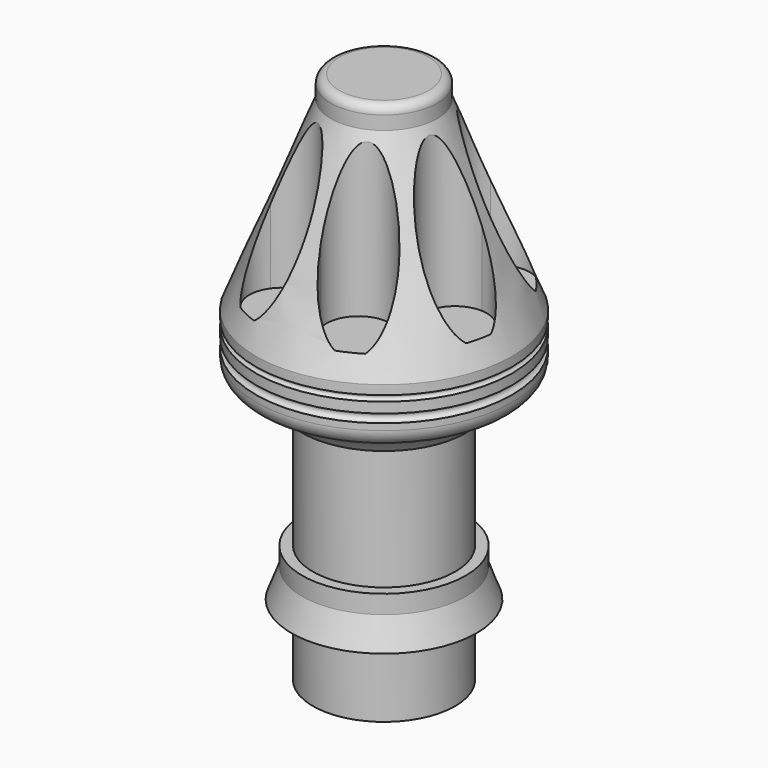
from build123d import *

# Parameters (mm, degrees)
F3_DEPTH = 33.02


with BuildPart() as f1:
    # F0 (on Front) → F1 (revolve)
    with BuildSketch(Plane.XZ):
        with BuildLine():
            Line((0, 0), (12.7, 0))
            Line((12.7, 0), (12.7, 12.7))
            Line((12.7, 12.7), (16.51, 12.7))
            Line((16.51, 12.7), (14.605, 17.8347313616))
            Line((14.605, 17.8347313616), (14.605, 21.1314130574))
            Line((14.605, 21.1314130574), (12.7, 21.1314130574))
            Line((12.7, 21.1314130574), (12.7, 43.5557179759))
            Line((12.7, 43.5557179759), (14.605, 43.5557179759))
            ThreePointArc((14.605, 43.5557179759), (17.0726488679, 46.3626655808), (20.4465660686, 47.9704368688))
            ThreePointArc((20.4465660686, 47.9704368688), (22.1848597228, 49.0953706142), (22.86, 51.0527480347))
            Line((22.86, 51.0527480347), (22.86, 52.2225338315))
            ThreePointArc((22.86, 52.2225338315), (22.098, 52.9845338315), (22.86, 53.7465338315))
            Line((22.86, 53.7465338315), (22.86, 55.6058391495))
            ThreePointArc((22.86, 55.6058391495), (22.352, 56.1138391495), (22.86, 56.6218391495))
            Line((22.86, 56.6218391495), (22.86, 58.2826297283))
            Line((22.86, 58.2826297283), (9.525, 91.2879129186))
            Line((9.525, 91.2879129186), (9.525, 93.726))
            ThreePointArc((9.525, 93.726), (9.0786307345, 94.8036307345), (8.001, 95.25))
            Line((8.001, 95.25), (0, 95.25))
            Line((0, 95.25), (0, 0))
        make_face()
    revolve(axis=Axis((0, 0, 13.8852223754), (0, 0, -1)))

    # F2 (on face) → F3 (cut)
    with BuildSketch(Plane.XY.offset(95.25)):
        with BuildLine():
            ThreePointArc((-5.6216546772, 14.8463), (0, 15.875), (5.6216546772, 14.8463))
            ThreePointArc((5.6216546772, 14.8463), (5.6916158286, 15.3585367779), (5.715, 15.875))
            ThreePointArc((5.715, 15.875), (-0.5164632221, 21.5666158286), (-5.6216546772, 14.8463))
        make_face()
        with BuildLine():
            ThreePointArc((-5.6216546772, 14.8463), (0, 10.16), (5.6216546772, 14.8463))
            ThreePointArc((5.6216546772, 14.8463), (0, 15.875), (-5.6216546772, 14.8463))
        make_face()
        with BuildLine():
            ThreePointArc((-15.112349099, 4.8613300351), (-12.4115747842, 9.8979006045), (-8.1022603773, 13.6517032556))
            ThreePointArc((-8.1022603773, 13.6517032556), (-16.8797417065, 13.4611448221), (-15.112349099, 4.8613300351))
        make_face()
        with BuildLine():
            ThreePointArc((-6.6965747842, 9.8979006045), (-7.0595211206, 11.9020828773), (-8.1022603773, 13.6517032556))
            ThreePointArc((-8.1022603773, 13.6517032556), (-12.4115747842, 9.8979006045), (-15.112349099, 4.8613300351))
            ThreePointArc((-15.112349099, 4.8613300351), (-9.4767579423, 4.9940169288), (-6.6965747842, 9.8979006045))
        make_face()
        with BuildLine():
            ThreePointArc((-11.5065040063, -10.9369095522), (-6.8879043585, -14.302880778), (-1.3766323058, -15.8151986549))
            ThreePointArc((-1.3766323058, -15.8151986549), (-1.2240653432, -15.065870037), (-1.1729043585, -14.302880778))
            ThreePointArc((-1.1729043585, -14.302880778), (-5.1178862777, -8.8688895198), (-11.5065040063, -10.9369095522))
        make_face()
        with BuildLine():
            ThreePointArc((-11.5065040063, -10.9369095522), (-9.3675499275, -19.451917858), (-1.3766323058, -15.8151986549))
            ThreePointArc((-1.3766323058, -15.8151986549), (-6.8879043585, -14.302880778), (-11.5065040063, -10.9369095522))
        make_face()
        with BuildLine():
            ThreePointArc((1.3766323058, -15.8151986549), (6.8879043585, -14.302880778), (11.5065040063, -10.9369095522))
            ThreePointArc((11.5065040063, -10.9369095522), (4.4082587894, -9.1538436979), (1.3766323058, -15.8151986549))
        make_face()
        with BuildLine():
            ThreePointArc((12.6029043585, -14.302880778), (12.3218956166, -12.5328626972), (11.5065040063, -10.9369095522))
            ThreePointArc((11.5065040063, -10.9369095522), (6.8879043585, -14.302880778), (1.3766323058, -15.8151986549))
            ThreePointArc((1.3766323058, -15.8151986549), (7.6508936175, -19.9667197932), (12.6029043585, -14.302880778))
        make_face()
        with BuildLine():
            ThreePointArc((13.2231364135, -8.7843205993), (15.1975806555, -4.5879371419), (15.875, 0))
            ThreePointArc((15.875, 0), (15.8374576365, 1.0911281376), (15.7250081118, 2.1770955157))
            ThreePointArc((15.7250081118, 2.1770955157), (9.9052675878, -2.260812689), (13.2231364135, -8.7843205993))
        make_face()
        with BuildLine():
            ThreePointArc((15.7250081118, 2.1770955157), (15.8374576365, 1.0911281376), (15.875, 0))
            ThreePointArc((15.875, 0), (15.1975806555, -4.5879371419), (13.2231364135, -8.7843205993))
            ThreePointArc((13.2231364135, -8.7843205993), (18.6218578245, -8.3044138195), (21.1919806059, -3.5325198266))
            ThreePointArc((21.1919806059, -3.5325198266), (19.6048554947, 0.4199318053), (15.7250081118, 2.1770955157))
        make_face()
        with BuildLine():
            ThreePointArc((8.1022603773, 13.6517032556), (12.4115747842, 9.8979006045), (15.112349099, 4.8613300351))
            ThreePointArc((15.112349099, 4.8613300351), (17.3154584599, 6.9630837626), (18.1265747842, 9.8979006045))
            ThreePointArc((18.1265747842, 9.8979006045), (14.4157570569, 15.2499542681), (8.1022603773, 13.6517032556))
        make_face()
        with BuildLine():
            ThreePointArc((8.1022603773, 13.6517032556), (7.9434078619, 6.3346563869), (15.112349099, 4.8613300351))
            ThreePointArc((15.112349099, 4.8613300351), (12.4115747842, 9.8979006045), (8.1022603773, 13.6517032556))
        make_face()
        with BuildLine():
            ThreePointArc((-15.7250081118, 2.1770955157), (-21.048693624, -4.8042269641), (-13.2231364135, -8.7843205993))
            ThreePointArc((-13.2231364135, -8.7843205993), (-15.4769806059, -3.5325198266), (-15.7250081118, 2.1770955157))
        make_face()
        with BuildLine():
            ThreePointArc((-15.7250081118, 2.1770955157), (-15.4769806059, -3.5325198266), (-13.2231364135, -8.7843205993))
            ThreePointArc((-13.2231364135, -8.7843205993), (-10.7050866129, -6.6773970452), (-9.7619806059, -3.5325198266))
            ThreePointArc((-9.7619806059, -3.5325198266), (-11.5245289741, 0.5953550623), (-15.7250081118, 2.1770955157))
        make_face()
    extrude(amount=-F3_DEPTH, mode=Mode.SUBTRACT)


solid = f1.part
